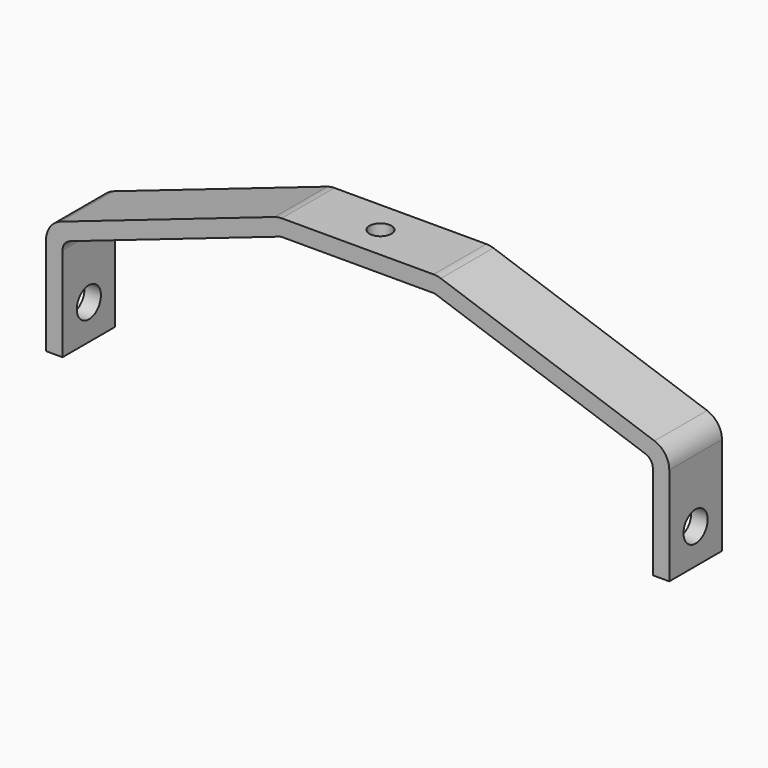
from build123d import *

# Parameters (mm, degrees)
F1_DEPTH = 38.1
F2_R     = 12.7
F3_R     = 25.4
F4_R     = 17.4625
F5_DEPTH = 721.6628119641
F6_R     = 12.7
F7_DEPTH = 224.2374025718


with BuildPart() as f1:
    # F0 (on Front) → F1 (new body, symmetric)
    with BuildSketch(Plane.XZ):
        Polygon((-298.3877922661, 118.1658460197), (-45.6175838582, 205.2016085916), (132.4110161418, 205.2016085916), (385.1740196981, 118.1683268491), (385.1740196981, 0.0176868491), (404.2240196981, 0.0176868491), (404.2240196981, 131.7565597925), (135.5988928448, 224.2516085916), (-48.8054605612, 224.2516085916), (-317.4377922661, 131.7540789632), (-317.4377922661, 0.0152060197), (-298.3877922661, 0.0152060197), align=None)
    extrude(amount=F1_DEPTH, both=True)

    # F2
    f2_edges = [f1.edges().sort_by_distance(p)[0] for p in [
        (-298.387792, 0, 118.165846),
        (-45.617584, 0, 205.201609),
        (132.411016, 0, 205.201609),
        (385.17402, 0, 118.168327),
    ]]
    fillet(f2_edges, radius=F2_R)

    # F3
    f3_edges = [f1.edges().sort_by_distance(p)[0] for p in [
        (-317.437792, 0, 131.754079),
        (-48.805461, 0, 224.251609),
        (135.598893, 0, 224.251609),
        (404.22402, 0, 131.75656),
    ]]
    fillet(f3_edges, radius=F3_R)

    # F4 (on face) → F5 (cut, through all)
    with BuildSketch(Plane.YZ.offset(404.2240196981)):
        with Locations((0, 40.5980758369)):
            Circle(F4_R)
    extrude(amount=-F5_DEPTH, mode=Mode.SUBTRACT)

    # F6 (on face) → F7 (cut, through all)
    with BuildSketch(Plane.XY.offset(224.2516085916)):
        with Locations((39.2650417094, 0)):
            Circle(F6_R)
    extrude(amount=-F7_DEPTH, mode=Mode.SUBTRACT)


solid = f1.part
